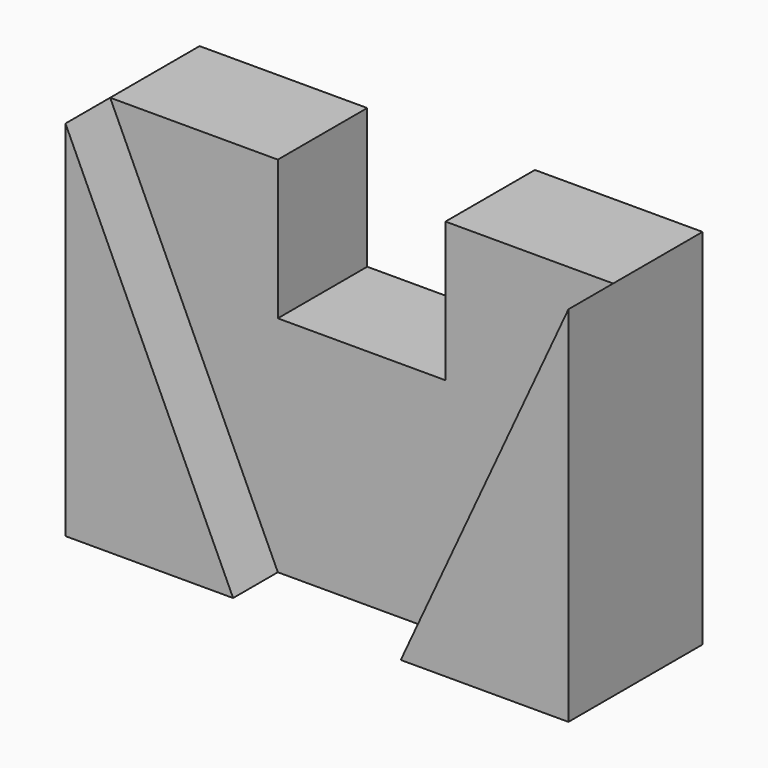
from build123d import *

# Parameters (mm, degrees)
F1_DEPTH = 100
F3_DEPTH = 100


with BuildPart() as f1:
    # F0 (on Front) → F1 (new body, symmetric)
    with BuildSketch(Plane.XZ):
        Polygon((450, -325), (450, 325), (150, 325), (150, 75), (-150, 75), (-150, 325), (-450, 325), (-450, -325), align=None)
    extrude(amount=F1_DEPTH, both=True)

    # F2 (on face) → F3 (join, symmetric)
    with BuildSketch(Plane.XZ.offset(100)):
        Polygon((-450, 325), (-450, -325), (-150, -325), align=None)
        Polygon((450, 325), (150, -325), (450, -325), align=None)
    extrude(amount=F3_DEPTH, both=True)


solid = f1.part
